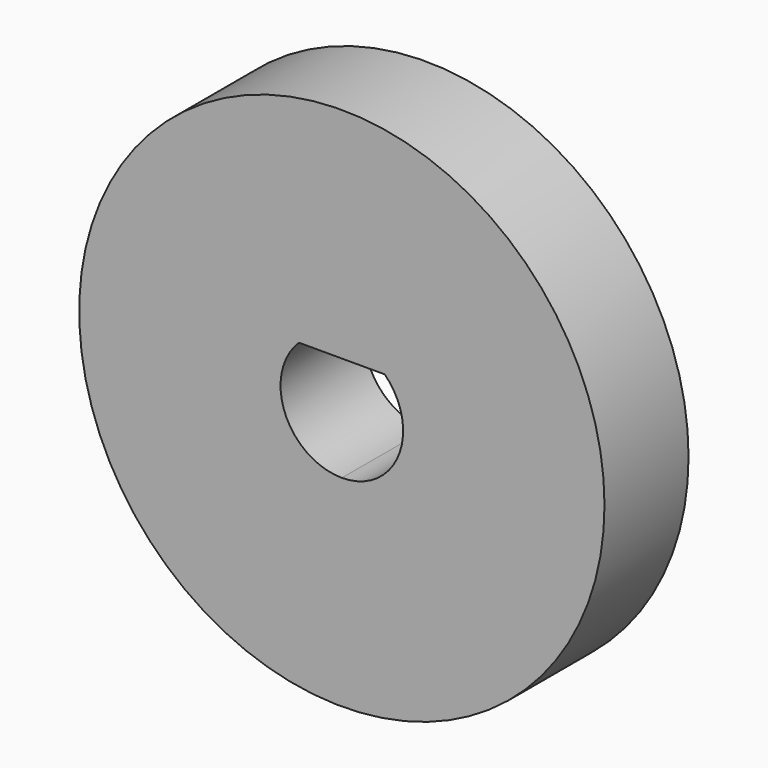
from build123d import *

# Parameters (mm, degrees)
F0_R     = 15
F1_DEPTH = 6


with BuildPart() as f1:
    # F0 (on Front) → F1 (new body)
    with BuildSketch(Plane.XZ):
        Circle(F0_R)
        with BuildLine():
            ThreePointArc((0, -3.5), (-3.24037, -1.322876), (-2.44949, 2.5))
            Line((-2.44949, 2.5), (0, 2.5))
            Line((0, 2.5), (2.44949, 2.5))
            ThreePointArc((2.44949, 2.5), (3.24037, -1.322876), (0, -3.5))
        make_face(mode=Mode.SUBTRACT)
    extrude(amount=F1_DEPTH)


solid = f1.part
